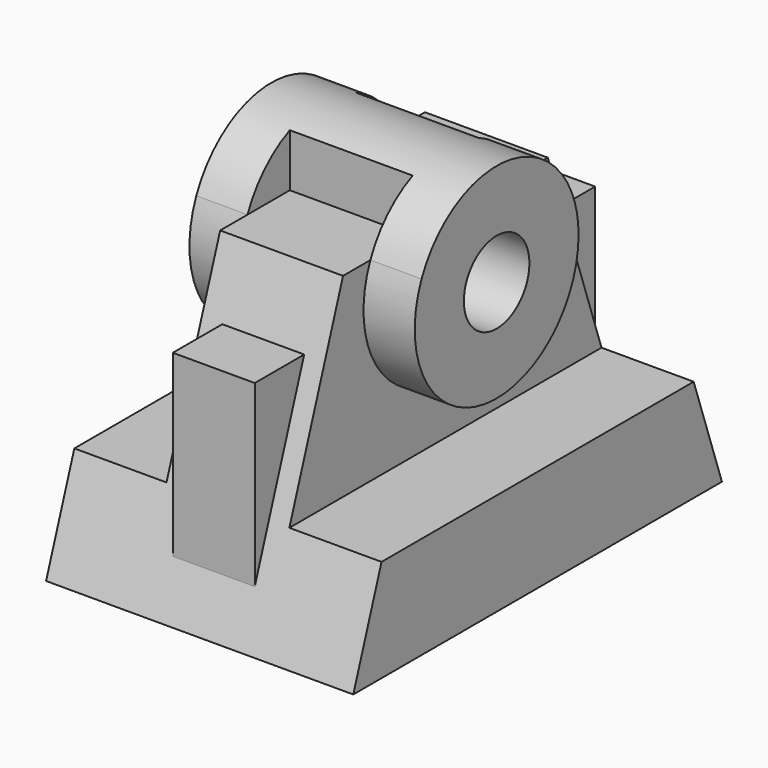
from build123d import *

# Parameters (mm, degrees)
F1_DEPTH      = 30
F2_W          = 18
F2_H          = 20
F2_H_2        = 50
F3_DEPTH      = 25
F2_H_3        = 90
F4_DEPTH      = 38
F6_DEPTH      = 8
F7_DEPTH      = 8
F9_DEPTH      = 10
F9_DEPTH_BACK = 34
F10_W         = 24
F10_H         = 17
F11_DEPTH     = 10.3313027798
F12_R         = 8
F13_DEPTH     = 52.001


with BuildPart() as f1:
    # F0 (on Right) → F1 (new body, symmetric)
    with BuildSketch(Plane.YZ):
        Polygon((-25, 58), (-45, 0), (45, 0), (25, 58), align=None)
    extrude(amount=F1_DEPTH, both=True)

    # F2 (on face) → F3 (cut)
    with BuildSketch(Plane.XY.offset(58)):
        with Locations((21, -35)):
            Rectangle(F2_W, F2_H)
        with Locations((21, 0)):
            Rectangle(F2_W, F2_H_2)
        with Locations((21, 35)):
            Rectangle(F2_W, F2_H)
    extrude(amount=-F3_DEPTH, mode=Mode.SUBTRACT)

    # F2 (on face) → F4 (cut)
    with BuildSketch(Plane.XY.offset(58)):
        with Locations((21, 0)):
            Rectangle(F2_W, F2_H_3)
        with Locations((-21, 0)):
            Rectangle(F2_W, F2_H_3)
    extrude(amount=-F4_DEPTH, mode=Mode.SUBTRACT)

    # F5 (on Right) → F6 (join, symmetric)
    with BuildSketch(Plane.YZ):
        Polygon((-29.4827586207, 45), (-41.5517241379, 45), (-41.5517241379, 10), align=None)
        Polygon((41.5517241379, 10), (41.5517241379, 45), (29.4827586207, 45), align=None)
    extrude(amount=F6_DEPTH, both=True)

    # F5 (on Right) → F7 (join, symmetric)
    with BuildSketch(Plane.YZ):
        Polygon((-29.4827586207, 45), (-41.5517241379, 45), (-41.5517241379, 10), align=None)
        Polygon((41.5517241379, 10), (41.5517241379, 45), (29.4827586207, 45), align=None)
    extrude(amount=F7_DEPTH, both=True)

    # F8 (on face) → F9 (join, two sides)
    with BuildSketch(Plane.YZ.offset(12)) as f9_sk:
        with BuildLine():
            ThreePointArc((-18.3303027798, 58), (-4.0861928738, 30.4218737414), (20, 50))
            ThreePointArc((20, 50), (19.5781262586, 54.0861928738), (18.3303027798, 58))
            Line((18.3303027798, 58), (-18.3303027798, 58))
        make_face()
        with BuildLine():
            Line((-18.3303027798, 58), (18.3303027798, 58))
            ThreePointArc((18.3303027798, 58), (0, 70), (-18.3303027798, 58))
        make_face()
    extrude(amount=F9_DEPTH)
    extrude(f9_sk.sketch, amount=-F9_DEPTH_BACK)

    # F10 (on face) → F11 (cut, through all)
    with BuildSketch(Plane.XY.offset(58)):
        with Locations((0, -16.5)):
            Rectangle(F10_W, F10_H)
        with Locations((0, 16.5)):
            Rectangle(F10_W, F10_H)
    extrude(amount=F11_DEPTH, mode=Mode.SUBTRACT)

    # F12 (on face) → F13 (cut, through all)
    with BuildSketch(Plane.YZ.offset(22)):
        with Locations((0, 50)):
            Circle(F12_R)
    extrude(amount=-F13_DEPTH, mode=Mode.SUBTRACT)


solid = f1.part
